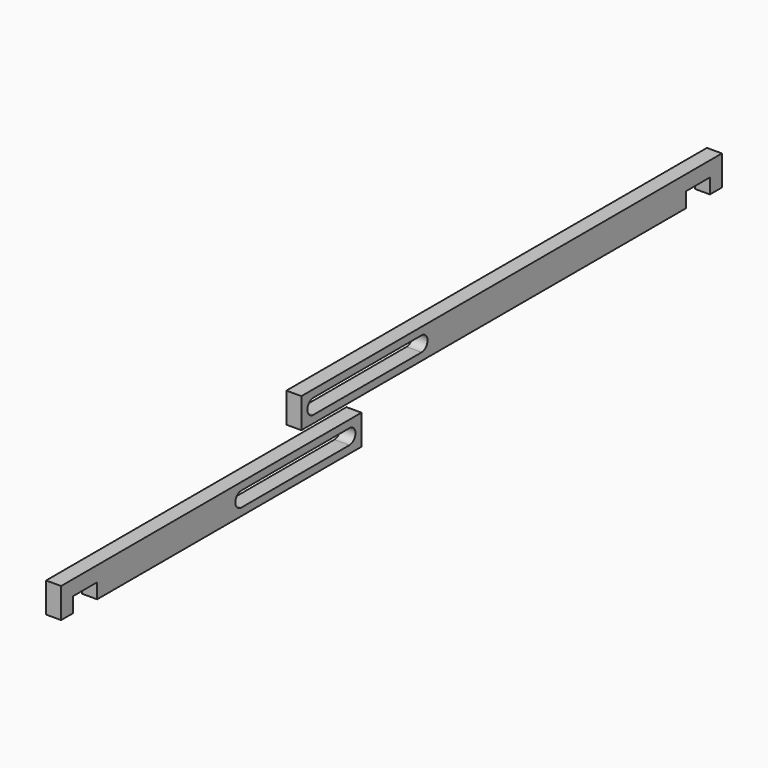
from build123d import *

# Parameters (mm, degrees)
F1_DEPTH = 5
F3_DEPTH = 5


with BuildPart() as f1:
    # F0 (on Right) → F1 (new body)
    with BuildSketch(Plane.YZ):
        Polygon((15, 0), (125, 0), (125, 10), (0, 10), (0, 0), (5, 0), (5, 5), (15, 5), align=None)
        with BuildLine():
            ThreePointArc((120, 7.5), (122.5, 5), (120, 2.5))
            Line((120, 2.5), (75, 2.5))
            ThreePointArc((75, 2.5), (72.5, 5), (75, 7.5))
            Line((75, 7.5), (120, 7.5))
        make_face(mode=Mode.SUBTRACT)
    extrude(amount=F1_DEPTH)


with BuildPart() as f3:
    # F2 (on face) → F3 (new body)
    with BuildSketch(Plane.YZ.offset(5)):
        Polygon((100, 15), (260, 15), (260, 20), (270, 20), (270, 15), (275, 15), (275, 25), (100, 25), align=None)
        with BuildLine():
            ThreePointArc((105, 17.5), (102.5, 20), (105, 22.5))
            Line((105, 22.5), (150, 22.5))
            ThreePointArc((150, 22.5), (152.5, 20), (150, 17.5))
            Line((150, 17.5), (105, 17.5))
        make_face(mode=Mode.SUBTRACT)
    extrude(amount=-F3_DEPTH)


solid = Compound([f1.part, f3.part])
